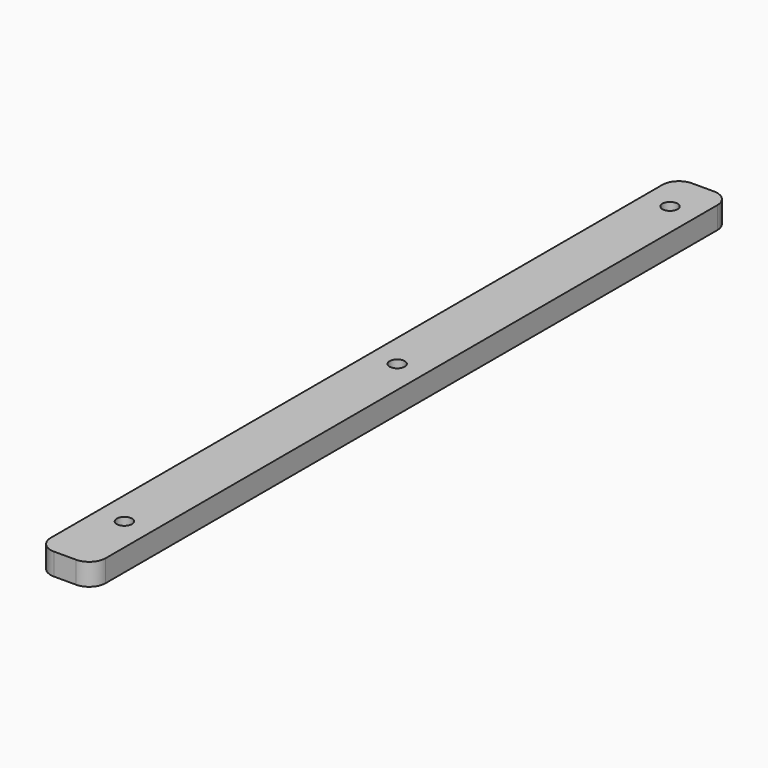
from build123d import *

# Parameters (mm, degrees)
CYLINDER086_R     = 1.38
CYLINDER086_DEPTH = 13
CYLINDER088_R     = 1.38
CYLINDER088_DEPTH = 13
CYLINDER087_R     = 1.38
CYLINDER087_DEPTH = 13
BOX043_W          = 10
BOX043_H          = 145
BOX043_DEPTH      = 4
FILLET010_R       = 3


with BuildPart() as cylinder086:
    # Cylinder086 → Cylinder086 (new body)
    with BuildSketch(Plane(origin=(25, 188.5, 59), x_dir=(1, 0, 0), z_dir=(0, 0, 1))):
        Circle(CYLINDER086_R)
    extrude(amount=CYLINDER086_DEPTH)


with BuildPart() as cylinder088:
    # Cylinder088 → Cylinder088 (new body)
    with BuildSketch(Plane(origin=(25, 126.5, 59), x_dir=(1, 0, 0), z_dir=(0, 0, 1))):
        Circle(CYLINDER088_R)
    extrude(amount=CYLINDER088_DEPTH)


with BuildPart() as cylinder087:
    # Cylinder087 → Cylinder087 (new body)
    with BuildSketch(Plane(origin=(25, 64.5, 59), x_dir=(1, 0, 0), z_dir=(0, 0, 1))):
        Circle(CYLINDER087_R)
    extrude(amount=CYLINDER087_DEPTH)


with BuildPart() as obj1:
    # Box043 → Box043 (new body)
    with BuildSketch(Plane(origin=(20, 51, 66), x_dir=(1, 0, 0), z_dir=(0, 0, 1))):
        with Locations((5, 72.5)):
            Rectangle(BOX043_W, BOX043_H)
    extrude(amount=BOX043_DEPTH)

    # Fillet010
    fillet010_edges = [obj1.edges().sort_by_distance(p)[0] for p in [
        (20, 51, 68),
        (20, 196, 68),
        (30, 51, 68),
        (30, 196, 68),
    ]]
    fillet(fillet010_edges, radius=FILLET010_R)

    # Cut056: cut Cylinder087
    add(cylinder087.part, mode=Mode.SUBTRACT)

    # Cut057: cut Cylinder088
    add(cylinder088.part, mode=Mode.SUBTRACT)

    # Cut058: cut Cylinder086
    add(cylinder086.part, mode=Mode.SUBTRACT)


with BuildPart() as obj1_1:
    # Cut058 placement: moved
    add(obj1.part.moved(Location((-2, -7.5, 0))))


solid = obj1_1.part
